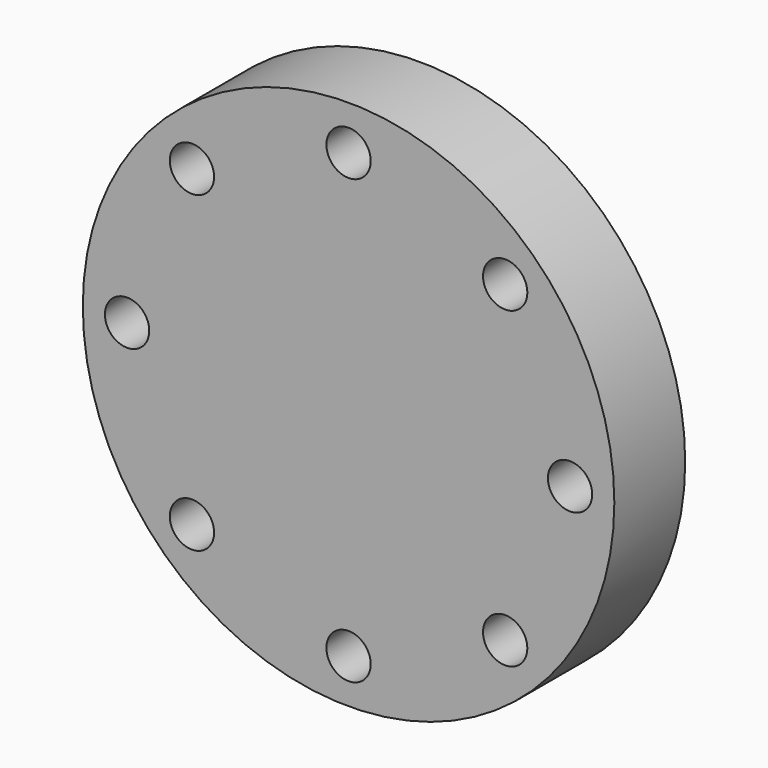
from build123d import *

# Parameters (mm, degrees)
F0_R     = 60
F0_R_2   = 5
F1_DEPTH = 20


with BuildPart() as f1:
    # F0 (on Front) → F1 (new body)
    with BuildSketch(Plane.XZ):
        Circle(F0_R)
        with Locations((-35.355339, -35.355339)):
            Circle(F0_R_2, mode=Mode.SUBTRACT)
        with Locations((0, -50)):
            Circle(F0_R_2, mode=Mode.SUBTRACT)
        with Locations((35.355339, -35.355339)):
            Circle(F0_R_2, mode=Mode.SUBTRACT)
        with Locations((-50, 0)):
            Circle(F0_R_2, mode=Mode.SUBTRACT)
        with Locations((-35.355339, 35.355339)):
            Circle(F0_R_2, mode=Mode.SUBTRACT)
        with Locations((50, 0)):
            Circle(F0_R_2, mode=Mode.SUBTRACT)
        with Locations((0, 50)):
            Circle(F0_R_2, mode=Mode.SUBTRACT)
        with Locations((35.355339, 35.355339)):
            Circle(F0_R_2, mode=Mode.SUBTRACT)
    extrude(amount=-F1_DEPTH)

    # F2 (on Top) → F3 (revolve)
    with BuildSketch(Plane.XY):
        with BuildLine():
            Line((0, 20), (0, 40))
            ThreePointArc((0, 40), (-20, 34.641016), (-34.641016, 20))
            Line((-34.641016, 20), (0, 20))
        make_face()
    revolve(axis=Axis((0, 30, 0), (0, 1, 0)))


solid = f1.part
